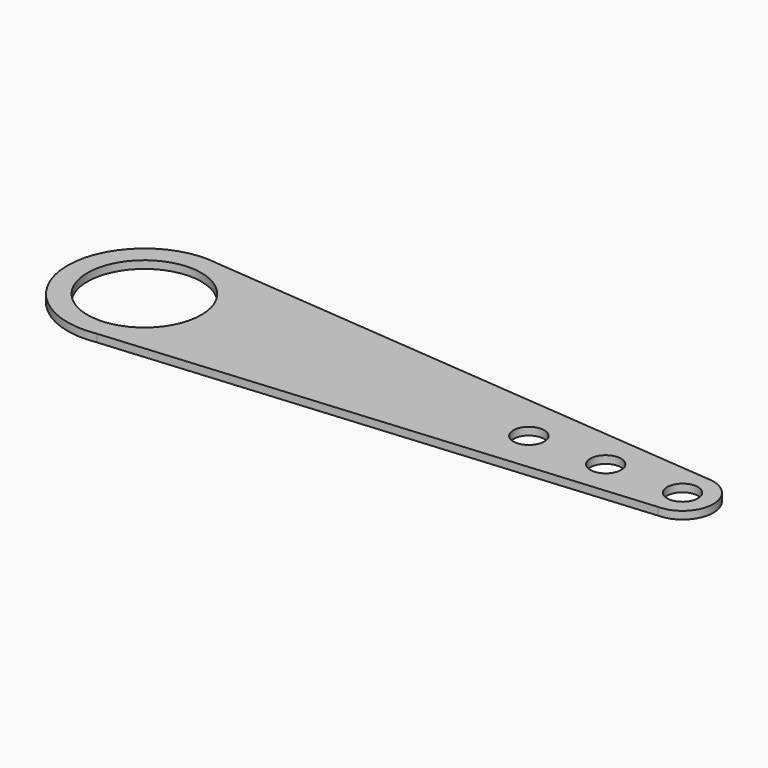
from build123d import *

# Parameters (mm, degrees)
F0_R     = 22.225
F0_R_2   = 6
F1_DEPTH = 3


with BuildPart() as f1:
    # F0 (on Top) → F1 (new body)
    with BuildSketch(Plane.XY):
        with BuildLine():
            Line((210, 12), (5.105348, 29.562399))
            ThreePointArc((5.105348, 29.562399), (-30, 0), (5.105348, -29.562399))
            Line((5.105348, -29.562399), (210, -12))
            ThreePointArc((210, -12), (222, 0), (210, 12))
        make_face()
        Circle(F0_R, mode=Mode.SUBTRACT)
        with Locations((150, 0)):
            Circle(F0_R_2, mode=Mode.SUBTRACT)
        with Locations((180, 0)):
            Circle(F0_R_2, mode=Mode.SUBTRACT)
        with Locations((210, 0)):
            Circle(F0_R_2, mode=Mode.SUBTRACT)
    extrude(amount=F1_DEPTH)


solid = f1.part
